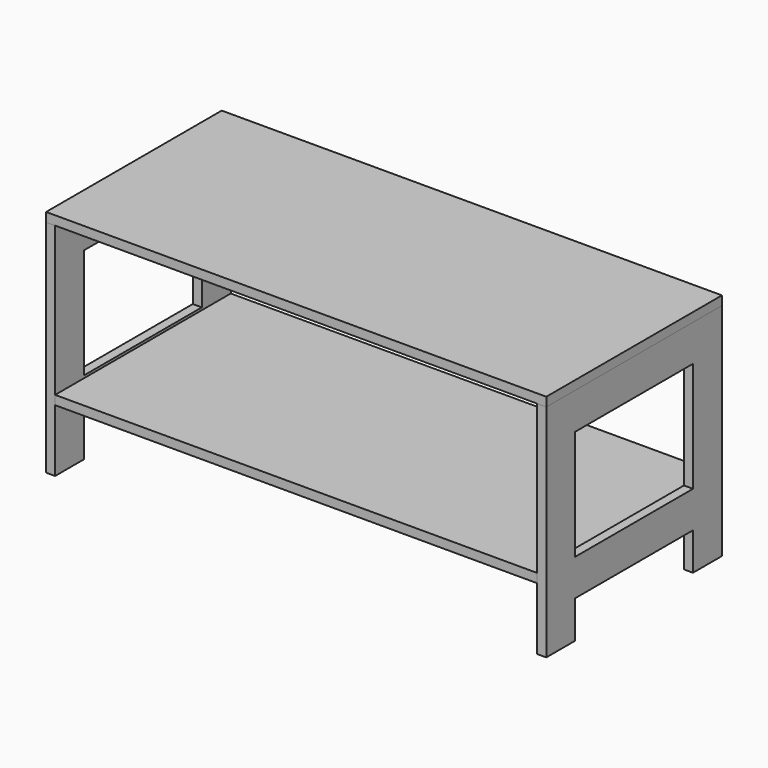
from build123d import *

# Parameters (mm, degrees)
F2_W      = 802
F2_H      = 352
F5_DEPTH  = 14.5
F6_W      = 58
F6_H      = 353.5
F7_DEPTH  = 14.5
F9_W      = 236
F9_H      = 58.5
F10_DEPTH = 14.5
F15_W     = 773
F15_H     = 59
F16_DEPTH = 14.5
F13_W     = 773
F13_H     = 14.5
F17_DEPTH = 352


with BuildPart() as f5:
    # F2 (on offset) → F5 (new body)
    with BuildSketch(Plane.XY.offset(368)):
        with Locations((0, -176)):
            Rectangle(F2_W, F2_H)
    extrude(amount=-F5_DEPTH)


with BuildPart() as f7:
    # F6 (on line) → F7 (new body)
    with BuildSketch(Plane(origin=(-401, 0, 0), x_dir=(0, -1, 0), z_dir=(-1, 0, 0))):
        with Locations((29, 176.75)):
            Rectangle(F6_W, F6_H)
    extrude(amount=-F7_DEPTH)


with BuildPart() as f8_1:
    # F8: instance of F7
    add(f7.part.mirror(Plane.XZ.offset(176)))


with BuildPart() as f10:
    # F9 (on line) → F10 (new body)
    with BuildSketch(Plane(origin=(-401, 0, 0), x_dir=(0, -1, 0), z_dir=(-1, 0, 0))):
        with Locations((176, 324.25)):
            Rectangle(F9_W, F9_H)
    extrude(amount=-F10_DEPTH)


with BuildPart() as f11_1:
    # F11: copy of F10
    add(f10.part.moved(Location((0, 0, -235))))


with BuildPart() as f7_1:
    add(f7.part)

    add(f8_1.part)  # F12 merges F8_1

    add(f10.part)  # F12 merges F10

    add(f11_1.part)  # F12 merges F11_1
    # F12: F7, F8_1, F10, F11_1 across plane
    add(f7.part.mirror(Plane.YZ))
    add(f8_1.part.mirror(Plane.YZ))
    add(f10.part.mirror(Plane.YZ))
    add(f11_1.part.mirror(Plane.YZ))


with BuildPart() as f16:
    # F15 (on offset) → F16 (new body)
    with BuildSketch(Plane.XZ.offset(184)):
        with Locations((0, 324)):
            Rectangle(F15_W, F15_H)
    extrude(amount=-F16_DEPTH)


with BuildPart() as f17:
    # F13 (on Front) → F17 (new body, through all)
    with BuildSketch(Plane.XZ):
        with Locations((0, 107.25)):
            Rectangle(F13_W, F13_H)
    extrude(amount=F17_DEPTH)


solid = Compound([f5.part, f7_1.part, f16.part, f17.part])
